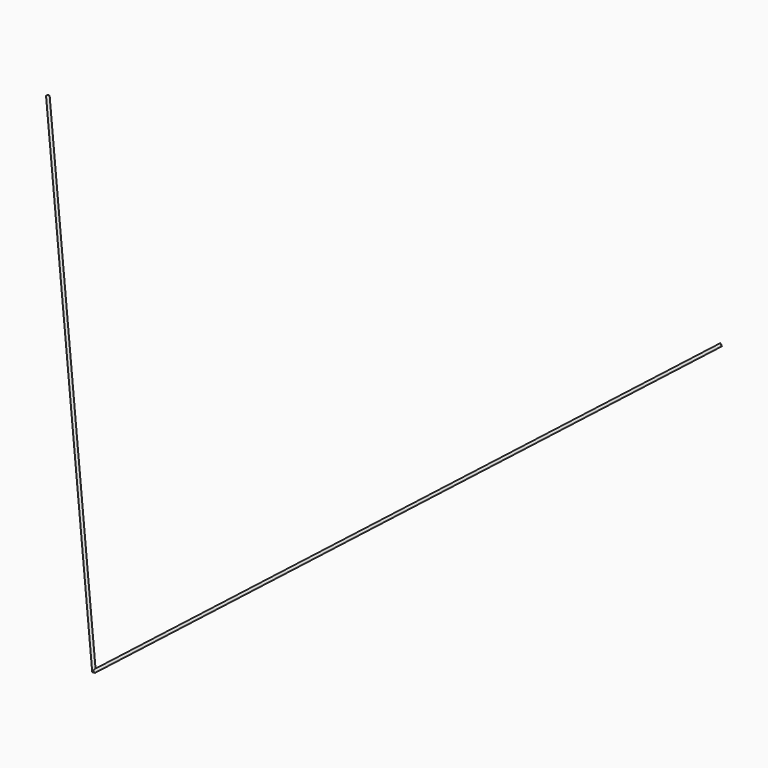
from build123d import *

# Parameters (mm, degrees)
F9_R = 5


with BuildPart() as f10:
    # F10: sweep along a path in F7
    with BuildLine(Plane(origin=(-648.1329715709, -600.7694082638, 0), x_dir=(-0.6798016726, 0.7333959953, 0), z_dir=(0.7333959953, 0.6798016726, 0))) as f10_path:
        Line((819.1610154647, 5550), (-953.4147939156, 4657))
    # F9 (on line) → F10 (sweep)
    with BuildSketch(Plane(origin=(-1960.1223094758, 2114.6547737084, 1452.6051637858), x_dir=(0.7946172218, 0.500419457, 0.3437496732), z_dir=(0.6071107566, -0.6549742602, -0.4499169341))):
        with Locations((950.2969338457, 4574.6644352995)):
            Circle(F9_R)
    sweep(path=f10_path.line)

    # F11: F10 across plane


with BuildPart() as f10_1:
    add(f10.part)
    add(f10.part.mirror(Plane.YZ))


solid = f10_1.part
